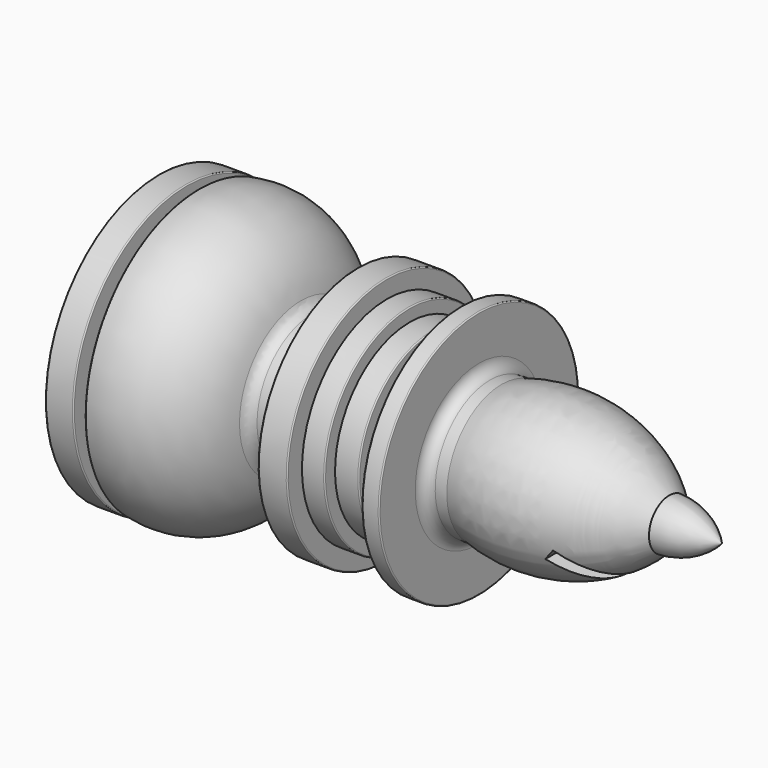
from build123d import *

# Parameters (mm, degrees)
F3_DEPTH = 12.7
F4_R     = 0.508
F5_R     = 0.0508


with BuildPart() as f1:
    # F0 (on Front) → F1 (revolve)
    with BuildSketch(Plane.XZ):
        with BuildLine():
            Line((-25.815926, 0), (0, 0))
            ThreePointArc((0, 0), (-1.089803, 0.827647), (-2.417712, 1.158296))
            ThreePointArc((-2.417712, 1.158296), (-5.983052, 3.221292), (-10.101448, 3.141195))
            Line((-10.101448, 3.141195), (-11.14247, 3.141195))
            Line((-11.14247, 3.141195), (-11.14247, 5.718965))
            Line((-11.14247, 5.718965), (-11.93563, 5.718965))
            Line((-11.93563, 5.718965), (-11.93563, 3.141195))
            Line((-11.93563, 3.141195), (-13.224514, 3.141195))
            Line((-13.224514, 3.141195), (-13.224514, 4.281363))
            Line((-13.224514, 4.281363), (-14.31511, 4.281363))
            Line((-14.31511, 4.281363), (-14.31511, 4.876233))
            Line((-14.31511, 4.876233), (-15.356132, 4.876233))
            Line((-15.356132, 4.876233), (-15.356132, 5.718965))
            Line((-15.356132, 5.718965), (-16.694589, 5.718965))
            Line((-16.694589, 5.718965), (-16.694589, 3.141195))
            Line((-16.694589, 3.141195), (-19.222787, 3.141195))
            ThreePointArc((-19.222787, 3.141195), (-20.878344, 5.848666), (-23.981744, 6.512125))
            Line((-23.981744, 6.512125), (-23.981744, 5.61982))
            Line((-23.981744, 5.61982), (-24.527043, 5.61982))
            Line((-24.527043, 5.61982), (-24.527043, 6.512125))
            Line((-24.527043, 6.512125), (-25.815926, 6.512125))
            Line((-25.815926, 6.512125), (-25.815926, 0))
        make_face()
    revolve(axis=Axis((-12.907963, 0, 0), (-1, 0, 0)))

    # F2 (on Front) → F3 (cut, symmetric)
    with BuildSketch(Plane.XZ):
        Polygon((-3.307398, -3.318003), (-2.929002, -2.80768), (-5.405267, -0.849704), (-5.799116, -1.347808), align=None)
    extrude(amount=F3_DEPTH, both=True, mode=Mode.SUBTRACT)

    # F4
    f4_edges = [f1.edges().sort_by_distance(p)[0] for p in [
        (-11.14247, 0, -3.141195),
        (-11.93563, 0, -3.141195),
        (-13.224514, 0, -3.141195),
        (-16.694589, 0, -3.141195),
        (-19.222787, 0, -3.141195),
    ]]
    fillet(f4_edges, radius=F4_R)

    # F5
    f5_edges = [f1.edges().sort_by_distance(p)[0] for p in [
        (-11.14247, 0, -5.718965),
        (-11.93563, 0, -5.718965),
        (-13.224514, 0, -4.281363),
        (-14.31511, 0, -4.876233),
        (-15.356132, 0, -5.718965),
        (-16.694589, 0, -5.718965),
        (-25.815926, 0, -6.512125),
        (-24.527043, 0, -6.512125),
        (-23.981744, 0, -6.512125),
    ]]
    fillet(f5_edges, radius=F5_R)


solid = f1.part
